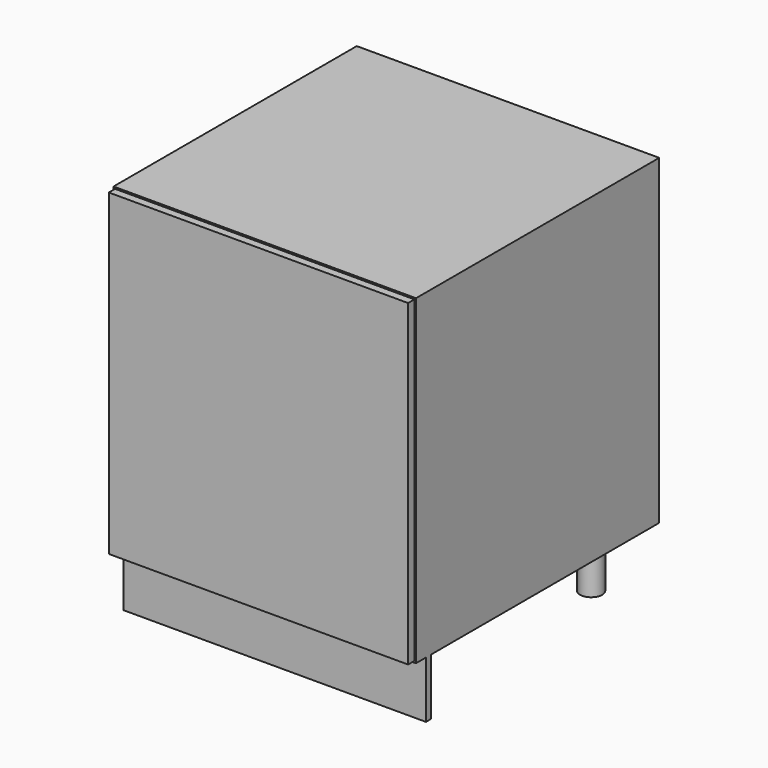
from build123d import *

# Parameters (mm, degrees)
F0_W     = 609.6
F0_H     = 647.7
F1_DEPTH = 314.325
F2_R     = 22.225
F3_DEPTH = 114.3
F4_W     = 609.6
F4_H     = 12.7
F5_DEPTH = 114.3
F6_W     = 609.6
F6_H     = 647.7
F6_W_2   = 603.25
F6_H_2   = 641.35
F7_DEPTH = 15.875


with BuildPart() as f1:
    # F0 (on Front) → F1 (new body, symmetric)
    with BuildSketch(Plane.XZ):
        with Locations((0, 438.15)):
            Rectangle(F0_W, F0_H)
    extrude(amount=F1_DEPTH, both=True)

    # F2 (on Top) → F3 (join)
    with BuildSketch(Plane.XY):
        with Locations((-228.6, -238.125)):
            Circle(F2_R)
        with Locations((228.6, -238.125)):
            Circle(F2_R)
        with Locations((228.6, 238.125)):
            Circle(F2_R)
        with Locations((-228.6, 238.125)):
            Circle(F2_R)
    extrude(amount=F3_DEPTH)

    # F4 (on Top) → F5 (join, through all)
    with BuildSketch(Plane.XY):
        with Locations((0, -266.954)):
            Rectangle(F4_W, F4_H)
    extrude(amount=F5_DEPTH)

    # F6 (on face) → F7 (cut)
    with BuildSketch(Plane.XZ.offset(314.325)):
        with Locations((0, 438.15)):
            Rectangle(F6_W, F6_H)
        with Locations((0, 438.15)):
            Rectangle(F6_W_2, F6_H_2, mode=Mode.SUBTRACT)
    extrude(amount=-F7_DEPTH, mode=Mode.SUBTRACT)


solid = f1.part
